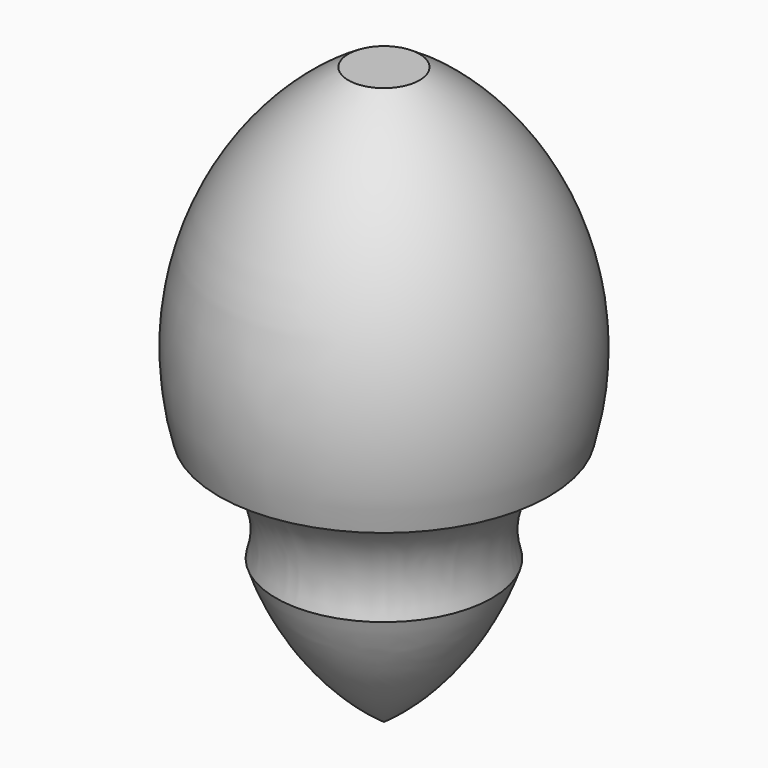
from build123d import *


with BuildPart() as f1:
    # F0 (on Front) → F1 (revolve)
    with BuildSketch(Plane.XZ):
        with BuildLine():
            Line((4.940295, 0), (0, 0))
            Line((0, 0), (0, -45))
            Line((0, -45), (22.893656, -45))
            ThreePointArc((22.893656, -45), (21.505043, -19.472638), (4.940295, 0))
        make_face()
        with BuildLine():
            Line((22.893656, -45), (0, -45))
            Line((0, -45), (0, -60))
            Line((0, -60), (15, -60))
            ThreePointArc((15, -60), (15.845489, -50.86794), (22.893656, -45))
        make_face()
        with BuildLine():
            Line((15, -60), (0, -60))
            Line((0, -60), (0, -80))
            ThreePointArc((0, -80), (9.102632, -71.201974), (15, -60))
        make_face()
    revolve(axis=Axis((0, 0, -40), (0, 0, -1)))


solid = f1.part
